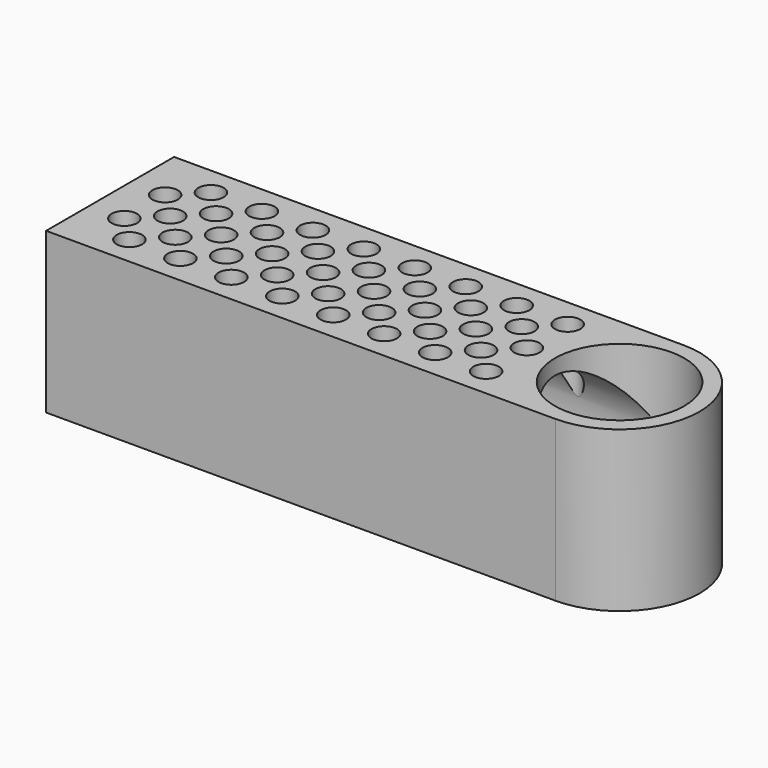
from build123d import *

# Parameters (mm, degrees)
F1_DEPTH = 31.4
F3_R     = 12.7
F4_DEPTH = 31.401
F2_R     = 12.7
F5_DEPTH = 100
F6_R     = 2.5
F7_DEPTH = 31.401


with BuildPart() as f1:
    # F0 (on Top) → F1 (new body)
    with BuildSketch(Plane.XY):
        with BuildLine():
            Line((-100, -15.7), (0, -15.7))
            ThreePointArc((0, -15.7), (15.7, 0), (0, 15.7))
            Line((0, 15.7), (-100, 15.7))
            Line((-100, 15.7), (-100, -15.7))
        make_face()
    extrude(amount=F1_DEPTH)

    # F3 (on face) → F4 (cut, through all)
    with BuildSketch(Plane.XY.offset(31.4)):
        Circle(F3_R)
    extrude(amount=-F4_DEPTH, mode=Mode.SUBTRACT)

    # F2 (on face) → F5 (cut)
    with BuildSketch(Plane(origin=(-100, 0, 0), x_dir=(0, -1, 0), z_dir=(-1, 0, 0))):
        with Locations((0, 15.7)):
            Circle(F2_R)
    extrude(amount=-F5_DEPTH, mode=Mode.SUBTRACT)

    # F6 (on face) → F7 (cut, through all)
    with BuildSketch(Plane.XY.offset(31.4)):
        with Locations((-18.2, 0)):
            Circle(F6_R)
        with Locations((-28.2, 0)):
            Circle(F6_R)
        with Locations((-38.2, 0)):
            Circle(F6_R)
        with Locations((-48.2, 0)):
            Circle(F6_R)
        with Locations((-58.2, 0)):
            Circle(F6_R)
        with Locations((-68.2, 0)):
            Circle(F6_R)
        with Locations((-78.2, 0)):
            Circle(F6_R)
        with Locations((-88.2, 0)):
            Circle(F6_R)
        with Locations((-23.2, 5)):
            Circle(F6_R)
        with Locations((-33.2, 5)):
            Circle(F6_R)
        with Locations((-43.2, 5)):
            Circle(F6_R)
        with Locations((-53.2, 5)):
            Circle(F6_R)
        with Locations((-63.2, 5)):
            Circle(F6_R)
        with Locations((-73.2, 5)):
            Circle(F6_R)
        with Locations((-83.2, 5)):
            Circle(F6_R)
        with Locations((-93.2, 5)):
            Circle(F6_R)
        with Locations((-93.2, -5)):
            Circle(F6_R)
        with Locations((-83.2, -5)):
            Circle(F6_R)
        with Locations((-73.2, -5)):
            Circle(F6_R)
        with Locations((-63.2, -5)):
            Circle(F6_R)
        with Locations((-53.2, -5)):
            Circle(F6_R)
        with Locations((-43.2, -5)):
            Circle(F6_R)
        with Locations((-33.2, -5)):
            Circle(F6_R)
        with Locations((-23.2, -5)):
            Circle(F6_R)
        with Locations((-88.2, 10)):
            Circle(F6_R)
        with Locations((-78.2, 10)):
            Circle(F6_R)
        with Locations((-68.2, 10)):
            Circle(F6_R)
        with Locations((-58.2, 10)):
            Circle(F6_R)
        with Locations((-48.2, 10)):
            Circle(F6_R)
        with Locations((-38.2, 10)):
            Circle(F6_R)
        with Locations((-28.2, 10)):
            Circle(F6_R)
        with Locations((-18.2, 10)):
            Circle(F6_R)
        with Locations((-88.2, -10)):
            Circle(F6_R)
        with Locations((-78.2, -10)):
            Circle(F6_R)
        with Locations((-68.2, -10)):
            Circle(F6_R)
        with Locations((-58.2, -10)):
            Circle(F6_R)
        with Locations((-48.2, -10)):
            Circle(F6_R)
        with Locations((-38.2, -10)):
            Circle(F6_R)
        with Locations((-28.2, -10)):
            Circle(F6_R)
        with Locations((-18.2, -10)):
            Circle(F6_R)
    extrude(amount=-F7_DEPTH, mode=Mode.SUBTRACT)


solid = f1.part
